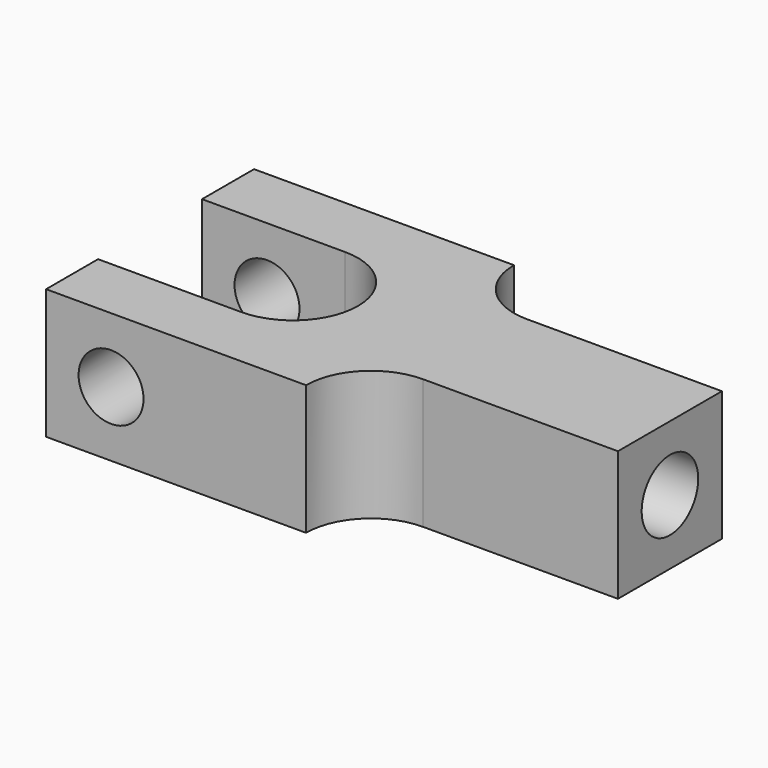
from build123d import *

# Parameters (mm, degrees)
F1_DEPTH = 3.175
F3_D     = 3.4544
F3_DEPTH = 12.7
F3_TIP   = 1.0378064612
F5_D     = 3.175


with BuildPart() as f1:
    # F0 (on Top) → F1 (new body, symmetric)
    with BuildSketch(Plane.XY):
        with BuildLine():
            Line((0, -3.175), (-6.985, -3.175))
            Line((-6.985, -3.175), (-6.985, -6.35))
            Line((-6.985, -6.35), (5.715, -6.35))
            ThreePointArc((5.715, -6.35), (6.6449359697, -4.1049359697), (8.89, -3.175))
            Line((8.89, -3.175), (18.415, -3.175))
            Line((18.415, -3.175), (18.415, 3.175))
            Line((18.415, 3.175), (8.89, 3.175))
            ThreePointArc((8.89, 3.175), (6.6449359697, 4.1049359697), (5.715, 6.35))
            Line((5.715, 6.35), (-6.985, 6.35))
            Line((-6.985, 6.35), (-6.985, 3.175))
            Line((-6.985, 3.175), (0, 3.175))
            ThreePointArc((0, 3.175), (3.175, 0), (0, -3.175))
        make_face()
    extrude(amount=F1_DEPTH, both=True)

    # F3
    with Locations(Plane.YZ.offset(18.415)):
        with Locations((0, 0)):
            Hole(F3_D / 2, depth=F3_DEPTH)
            with Locations((0, 0, -(F3_DEPTH + F3_TIP / 2))):  # 118° drill point
                Cone(0, F3_D / 2, F3_TIP, mode=Mode.SUBTRACT)

    # F5 (through all)
    with Locations(Plane.XZ.offset(6.35)):
        with Locations((-3.81, 0)):
            Hole(F5_D / 2)


solid = f1.part
